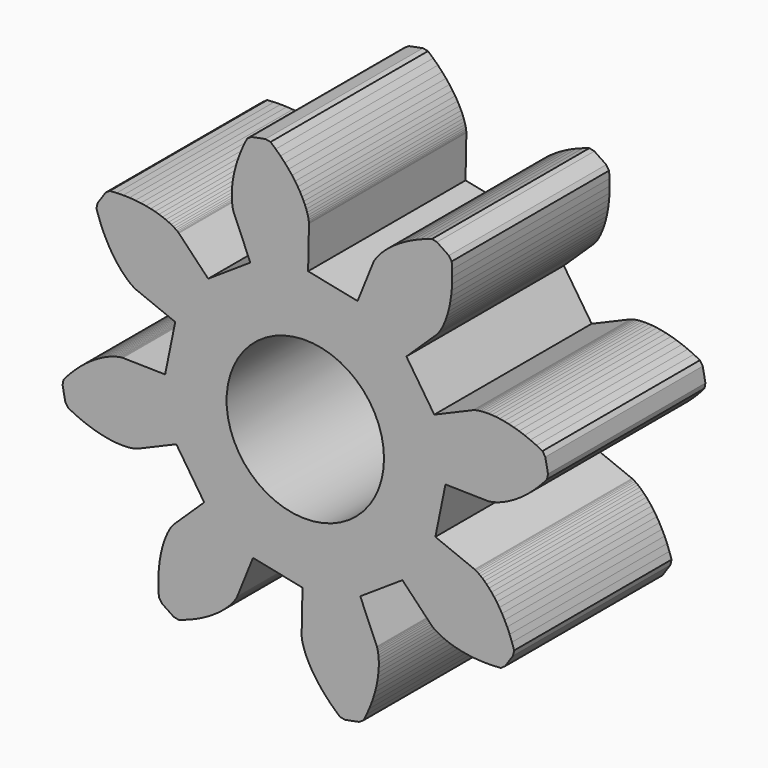
from build123d import *

# Parameters (mm, degrees)
F0_R     = 4
F1_DEPTH = 10


with BuildPart() as f1:
    # F0 (on Front) → F1 (new body)
    with BuildSketch(Plane.XZ):
        Polygon((-6.610403, 2.658613), (-7.123561, 0.143198), (-9.271378, 0.186354), (-9.287258, 0.185993), (-9.320729, 0.183816), (-9.37162, 0.178317), (-9.439671, 0.167963), (-9.524534, 0.151255), (-9.625738, 0.126704), (-9.742732, 0.092868), (-9.874874, 0.048335), (-10.021411, -0.008271), (-10.18152, -0.078287), (-10.354268, -0.162982), (-10.538656, -0.263577), (-10.733591, -0.381243), (-10.937922, -0.517064), (-11.15038, -0.672065), (-11.369684, -0.847193), (-11.594431, -1.043335), (-11.823197, -1.261262), (-12.054476, -1.501672), (-12.286729, -1.765188), (-12.335327, -2.022313), (-12.197599, -2.732864), (-12.05645, -2.953216), (-11.742565, -3.110876), (-11.438219, -3.24747), (-11.144594, -3.364135), (-10.862836, -3.462098), (-10.59399, -3.542617), (-10.338993, -3.607015), (-10.098722, -3.656664), (-9.873946, -3.692969), (-9.665325, -3.717387), (-9.473438, -3.731406), (-9.298766, -3.736538), (-9.141689, -3.734294), (-9.002489, -3.726231), (-8.881317, -3.713903), (-8.778273, -3.698861), (-8.693311, -3.682655), (-8.626319, -3.666829), (-8.57706, -3.652926), (-8.545202, -3.642434), (-8.530337, -3.636842), (-6.554185, -2.794339), (-5.13838, -4.935866), (-6.687633, -6.42408), (-6.698596, -6.435572), (-6.720727, -6.460772), (-6.752825, -6.500645), (-6.793627, -6.556086), (-6.841811, -6.627912), (-6.896019, -6.71683), (-6.954824, -6.82348), (-7.016767, -6.94841), (-7.080357, -7.092061), (-7.14407, -7.254774), (-7.206332, -7.436819), (-7.265584, -7.638329), (-7.320217, -7.859376), (-7.368661, -8.099891), (-7.409292, -8.359737), (-7.440523, -8.638635), (-7.460759, -8.936249), (-7.468418, -9.252109), (-7.461961, -9.585646), (-7.439852, -9.936201), (-7.292397, -10.152388), (-6.692576, -10.557435), (-6.43696, -10.613434), (-6.103533, -10.502973), (-5.791735, -10.384345), (-5.501612, -10.259221), (-5.233116, -10.129261), (-4.98607, -9.996089), (-4.760225, -9.861321), (-4.555225, -9.726524), (-4.370609, -9.593257), (-4.205818, -9.463003), (-4.060231, -9.337234), (-3.933096, -9.217355), (-3.82361, -9.104692), (-3.730878, -9.000565), (-3.653915, -8.906163), (-3.591685, -8.822667), (-3.543067, -8.751129), (-3.506883, -8.692575), (-3.48189, -8.647898), (-3.466785, -8.617955), (-3.460223, -8.603494), (-2.658614, -6.610403), (-0.143199, -7.123561), (-0.186355, -9.271378), (-0.185994, -9.287258), (-0.183816, -9.320729), (-0.178318, -9.37162), (-0.167964, -9.439672), (-0.151256, -9.524535), (-0.126705, -9.625738), (-0.092869, -9.742732), (-0.048336, -9.874874), (0.00827, -10.021411), (0.078287, -10.181521), (0.162982, -10.354268), (0.263576, -10.538657), (0.381242, -10.733591), (0.517063, -10.937922), (0.672064, -11.15038), (0.847192, -11.369684), (1.043335, -11.594432), (1.261261, -11.823198), (1.501671, -12.054476), (1.765187, -12.286729), (2.022312, -12.335327), (2.732863, -12.1976), (2.953215, -12.05645), (3.110875, -11.742565), (3.247469, -11.438219), (3.364134, -11.144594), (3.462097, -10.862836), (3.542616, -10.59399), (3.607014, -10.338993), (3.656663, -10.098722), (3.692968, -9.873947), (3.717386, -9.665325), (3.731405, -9.473438), (3.736537, -9.298766), (3.734293, -9.141689), (3.72623, -9.002489), (3.713902, -8.881317), (3.69886, -8.778274), (3.682655, -8.693311), (3.666828, -8.626319), (3.652925, -8.57706), (3.642433, -8.545203), (3.636841, -8.530337), (2.794338, -6.554185), (4.935865, -5.13838), (6.424079, -6.687633), (6.435571, -6.698596), (6.460771, -6.720727), (6.500644, -6.752825), (6.556085, -6.793627), (6.627911, -6.841811), (6.71683, -6.896019), (6.823479, -6.954824), (6.94841, -7.016768), (7.092061, -7.080358), (7.254773, -7.14407), (7.436819, -7.206332), (7.638328, -7.265584), (7.859375, -7.320217), (8.09989, -7.368661), (8.359736, -7.409292), (8.638634, -7.440523), (8.936248, -7.460759), (9.252108, -7.468419), (9.585645, -7.461961), (9.9362, -7.439852), (10.152387, -7.292397), (10.557434, -6.692576), (10.613433, -6.43696), (10.502972, -6.103533), (10.384344, -5.791736), (10.25922, -5.501612), (10.12926, -5.233116), (9.996088, -4.98607), (9.86132, -4.760226), (9.726523, -4.555225), (9.593256, -4.370609), (9.463002, -4.205818), (9.337233, -4.060231), (9.217354, -3.933096), (9.104691, -3.82361), (9.000564, -3.730878), (8.906162, -3.653915), (8.822666, -3.591685), (8.751129, -3.543067), (8.692574, -3.506883), (8.647897, -3.48189), (8.617955, -3.466785), (8.603494, -3.460223), (6.610402, -2.658614), (7.12356, -0.143199), (9.271377, -0.186355), (9.287258, -0.185994), (9.320728, -0.183816), (9.371619, -0.178318), (9.439671, -0.167964), (9.524534, -0.151256), (9.625738, -0.126705), (9.742731, -0.09287), (9.874873, -0.048336), (10.02141, 0.00827), (10.18152, 0.078286), (10.354267, 0.162982), (10.538656, 0.263576), (10.73359, 0.381242), (10.937921, 0.517063), (11.150379, 0.672064), (11.369683, 0.847192), (11.594431, 1.043334), (11.823197, 1.261261), (12.054475, 1.501671), (12.286728, 1.765186), (12.335326, 2.022312), (12.197599, 2.732863), (12.056449, 2.953215), (11.742564, 3.110875), (11.438218, 3.247469), (11.144593, 3.364134), (10.862835, 3.462097), (10.593989, 3.542616), (10.338992, 3.607014), (10.098722, 3.656663), (9.873946, 3.692968), (9.665324, 3.717386), (9.473437, 3.731405), (9.298765, 3.736537), (9.141688, 3.734294), (9.002488, 3.72623), (8.881316, 3.713902), (8.778273, 3.69886), (8.69331, 3.682654), (8.626318, 3.666828), (8.577059, 3.652925), (8.545202, 3.642433), (8.530336, 3.636841), (6.554184, 2.794338), (5.138379, 4.935865), (6.687632, 6.424079), (6.698595, 6.435571), (6.720726, 6.460771), (6.752824, 6.500644), (6.793627, 6.556085), (6.84181, 6.627911), (6.896018, 6.71683), (6.954823, 6.823479), (7.016767, 6.948409), (7.080357, 7.09206), (7.14407, 7.254773), (7.206331, 7.436818), (7.265583, 7.638328), (7.320216, 7.859375), (7.36866, 8.09989), (7.409291, 8.359736), (7.440522, 8.638634), (7.460758, 8.936248), (7.468418, 9.252108), (7.46196, 9.585645), (7.439851, 9.9362), (7.292396, 10.152387), (6.692576, 10.557434), (6.436959, 10.613433), (6.103532, 10.502972), (5.791735, 10.384344), (5.501611, 10.25922), (5.233115, 10.12926), (4.986069, 9.996088), (4.760225, 9.86132), (4.555224, 9.726523), (4.370608, 9.593257), (4.205817, 9.463002), (4.06023, 9.337233), (3.933095, 9.217354), (3.823609, 9.104692), (3.730877, 9.000564), (3.653914, 8.906162), (3.591684, 8.822666), (3.543066, 8.751128), (3.506882, 8.692574), (3.481889, 8.647897), (3.466784, 8.617955), (3.460222, 8.603494), (2.658613, 6.610402), (0.143198, 7.123561), (0.186354, 9.271377), (0.185993, 9.287257), (0.183815, 9.320728), (0.178317, 9.371619), (0.167963, 9.439671), (0.151255, 9.524534), (0.126704, 9.625737), (0.092869, 9.742731), (0.048336, 9.874873), (-0.008271, 10.02141), (-0.078287, 10.18152), (-0.162983, 10.354267), (-0.263577, 10.538656), (-0.381243, 10.73359), (-0.517064, 10.937921), (-0.672065, 11.150379), (-0.847193, 11.369683), (-1.043335, 11.59443), (-1.261262, 11.823197), (-1.501672, 12.054475), (-1.765187, 12.286728), (-2.022312, 12.335326), (-2.732864, 12.197599), (-2.953215, 12.056449), (-3.110876, 11.742564), (-3.24747, 11.438218), (-3.364135, 11.144593), (-3.462098, 10.862835), (-3.542617, 10.593989), (-3.607015, 10.338992), (-3.656664, 10.098721), (-3.692969, 9.873946), (-3.717387, 9.665324), (-3.731406, 9.473437), (-3.736538, 9.298765), (-3.734294, 9.141688), (-3.72623, 9.002488), (-3.713903, 8.881316), (-3.698861, 8.778273), (-3.682655, 8.69331), (-3.666828, 8.626318), (-3.652926, 8.577059), (-3.642434, 8.545202), (-3.636842, 8.530336), (-2.794338, 6.554184), (-4.935866, 5.138379), (-6.424079, 6.687632), (-6.435572, 6.698595), (-6.460772, 6.720726), (-6.500645, 6.752824), (-6.556086, 6.793626), (-6.627912, 6.84181), (-6.716831, 6.896018), (-6.82348, 6.954823), (-6.94841, 7.016767), (-7.092061, 7.080356), (-7.254774, 7.144069), (-7.436819, 7.206331), (-7.638329, 7.265583), (-7.859376, 7.320217), (-8.09989, 7.36866), (-8.359737, 7.409291), (-8.638635, 7.440523), (-8.936248, 7.460758), (-9.252108, 7.468418), (-9.585646, 7.46196), (-9.936201, 7.439851), (-10.152388, 7.292396), (-10.557435, 6.692575), (-10.613434, 6.436959), (-10.502973, 6.103532), (-10.384345, 5.791735), (-10.259221, 5.501612), (-10.129261, 5.233115), (-9.996089, 4.986069), (-9.861321, 4.760225), (-9.726524, 4.555224), (-9.593257, 4.370608), (-9.463003, 4.205817), (-9.337234, 4.06023), (-9.217354, 3.933095), (-9.104692, 3.823609), (-9.000565, 3.730877), (-8.906163, 3.653914), (-8.822667, 3.591684), (-8.751129, 3.543066), (-8.692575, 3.506882), (-8.647898, 3.481889), (-8.617955, 3.466784), (-8.603495, 3.460222), align=None)
        Circle(F0_R, mode=Mode.SUBTRACT)
    extrude(amount=F1_DEPTH)


solid = f1.part
